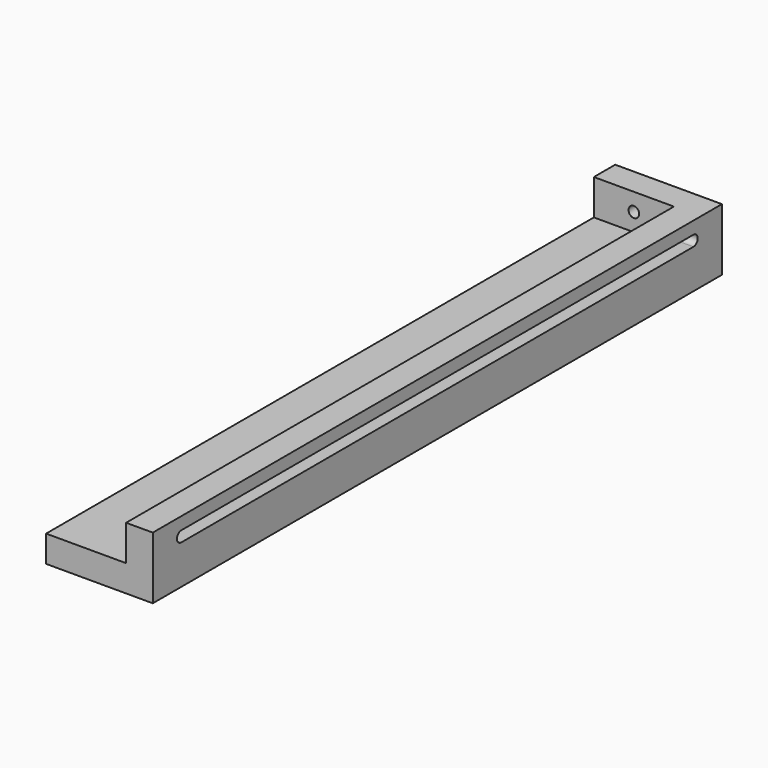
from build123d import *

# Parameters (mm, degrees)
F0_W     = 60
F0_H     = 15
F1_DEPTH = 200
F2_W     = 15
F2_H     = 20
F3_DEPTH = 400
F5_DEPTH = 15.001
F6_W     = 45
F6_H     = 15
F7_DEPTH = 20
F8_R     = 3
F9_DEPTH = 15.001


with BuildPart() as f1:
    # F0 (on Front) → F1 (new body, symmetric)
    with BuildSketch(Plane.XZ):
        Rectangle(F0_W, F0_H)
    extrude(amount=F1_DEPTH, both=True)

    # F2 (on face) → F3 (join, through all)
    with BuildSketch(Plane.XZ.offset(200)):
        with Locations((22.5, 17.5)):
            Rectangle(F2_W, F2_H)
    extrude(amount=-F3_DEPTH)

    # F4 (on face) → F5 (cut, through all)
    with BuildSketch(Plane(origin=(15, 0, 0), x_dir=(0, -1, 0), z_dir=(-1, 0, 0))):
        with BuildLine():
            ThreePointArc((180, 14.5), (183, 17.5), (180, 20.5))
            Line((180, 20.5), (-180, 20.5))
            ThreePointArc((-180, 20.5), (-183, 17.5), (-180, 14.5))
            Line((-180, 14.5), (180, 14.5))
        make_face()
    extrude(amount=-F5_DEPTH, mode=Mode.SUBTRACT)

    # F6 (on face) → F7 (join)
    with BuildSketch(Plane.XY.offset(7.5)):
        with Locations((-7.5, 192.5)):
            Rectangle(F6_W, F6_H)
    extrude(amount=F7_DEPTH)

    # F8 (on face) → F9 (cut, through all)
    with BuildSketch(Plane.XZ.offset(-185)):
        with Locations((-7.5, 17.5)):
            Circle(F8_R)
    extrude(amount=-F9_DEPTH, mode=Mode.SUBTRACT)


solid = f1.part
